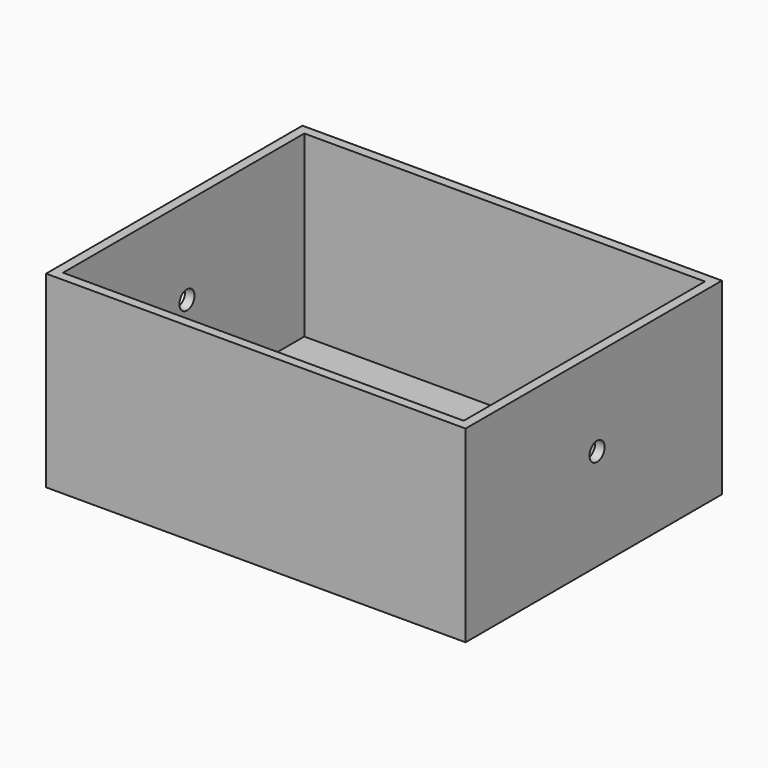
from build123d import *

# Parameters (mm, degrees)
F0_W     = 111.455526
F0_H     = 85.127451
F1_DEPTH = 50
F2_T     = -2.5
F4_D     = 5


with BuildPart() as f1:
    # F0 (on Top) → F1 (new body)
    with BuildSketch(Plane.XY):
        with Locations((4.168613, -1.096998)):
            Rectangle(F0_W, F0_H)
    extrude(amount=F1_DEPTH)

    # F2
    f2_openings = [f1.faces().sort_by_distance(p)[0] for p in [
        (4.168613, -1.096997, 50),
    ]]
    offset(amount=F2_T, openings=f2_openings)

    # F4 (through all)
    with Locations(Plane.YZ.offset(59.896376)):
        with Locations((0, 26.930908)):
            Hole(F4_D / 2)


solid = f1.part
